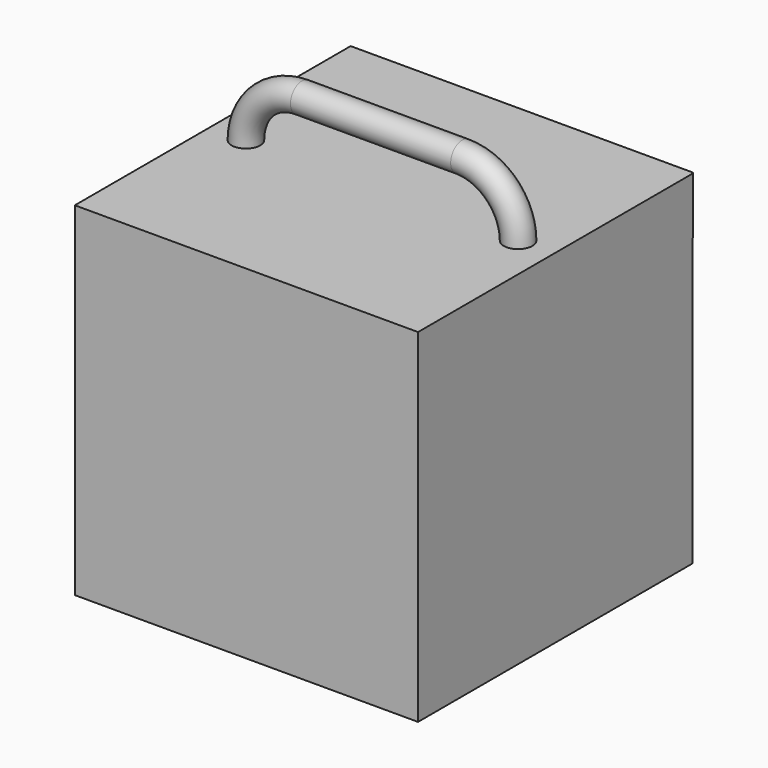
from build123d import *

# Parameters (mm, degrees)
F0_W      = 30
F0_H      = 30
F1_DEPTH  = 30
F5_R      = 1.25
F7_W      = 25
F7_H      = 25
F8_DEPTH  = 30
F9_W      = 29.9418475479
F9_H      = 30.1353819668
F10_DEPTH = 5


with BuildPart() as f1:
    # F0 (on Top) → F1 (new body)
    with BuildSketch(Plane.XY):
        with Locations((15, 15)):
            Rectangle(F0_W, F0_H)
    extrude(amount=F1_DEPTH)

    # F6: sweep along a path in F4
    with BuildLine(Plane(origin=(0, 15, 0), x_dir=(-1, 0, 0), z_dir=(0, 1, 0))) as f6_path:
        ThreePointArc((-27, 30), (-25.5355339059, 33.5355339059), (-22, 35))
        Line((-22, 35), (-8, 35))
        ThreePointArc((-8, 35), (-4.4644660941, 33.5355339059), (-3, 30))
    # F5 (on face) → F6 (sweep)
    with BuildSketch(Plane.XY.offset(30)):
        with Locations((26.8965084106, 14.8129407316)):
            Circle(F5_R)
    sweep(path=f6_path.line)

    # F7 (on face) → F8 (cut, through all)
    with BuildSketch(Plane(origin=(0, 0, 0), x_dir=(1, 0, 0), z_dir=(0, 0, -1))):
        with Locations((15, -15)):
            Rectangle(F7_W, F7_H)
    extrude(amount=-F8_DEPTH, mode=Mode.SUBTRACT)

    # F9 (on face) → F10 (join)
    with BuildSketch(Plane.XY.offset(30)):
        with Locations((14.9709237739, 15.0676909834)):
            Rectangle(F9_W, F9_H)
    extrude(amount=-F10_DEPTH)


solid = f1.part
